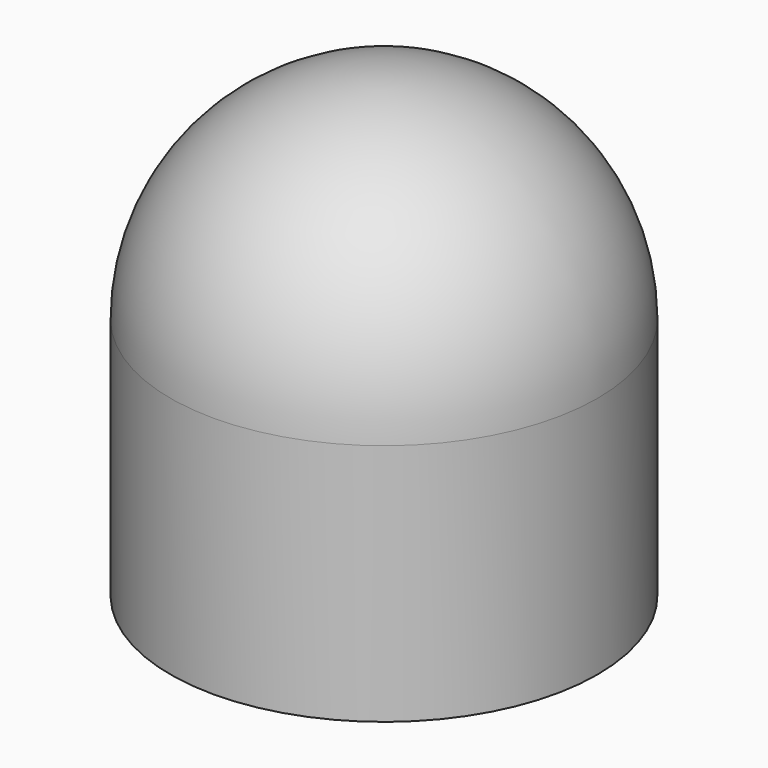
from build123d import *

# Parameters (mm, degrees)
F0_R     = 5.05
F1_DEPTH = 10.8
F2_R     = 5.05
F3_R     = 3.2
F4_DEPTH = 9.1
F5_R     = 0.3


with BuildPart() as f1:
    # F0 (on Top) → F1 (new body)
    with BuildSketch(Plane.XY):
        Circle(F0_R)
    extrude(amount=F1_DEPTH)

    # F2
    f2_edges = [f1.edges().sort_by_distance(p)[0] for p in [
        (-5.05, 0, 10.8),
    ]]
    fillet(f2_edges, radius=F2_R)

    # F3 (on face) → F4 (cut)
    with BuildSketch(Plane(origin=(0, 0, 0), x_dir=(1, 0, 0), z_dir=(0, 0, -1))):
        Circle(F3_R)
    extrude(amount=-F4_DEPTH, mode=Mode.SUBTRACT)

    # F5
    f5_edges = [f1.edges().sort_by_distance(p)[0] for p in [
        (-3.2, 0, 9.1),
    ]]
    fillet(f5_edges, radius=F5_R)


solid = f1.part
